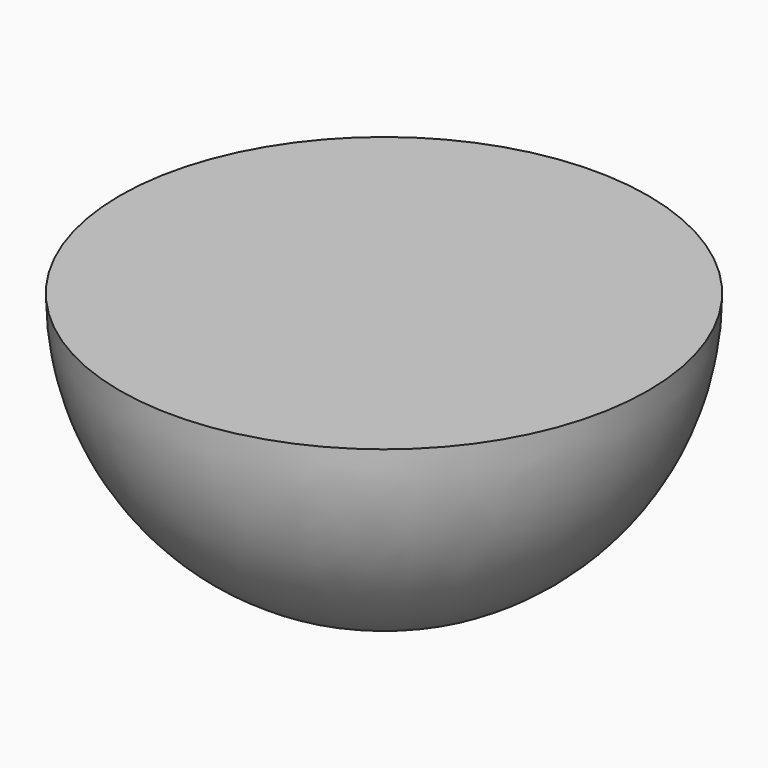
from build123d import *


with BuildPart() as f1:
    # F0 (on Front) → F1 (revolve)
    with BuildSketch(Plane.XZ):
        with BuildLine():
            Line((0, 0), (-350, 0))
            ThreePointArc((-350, 0), (-303.108891, -175), (-175, -303.108891))
            Line((-175, -303.108891), (0, -303.108891))
            Line((0, -303.108891), (0, 0))
        make_face()
    revolve(axis=Axis((0, 0, -151.554446), (0, 0, -1)))


solid = f1.part
